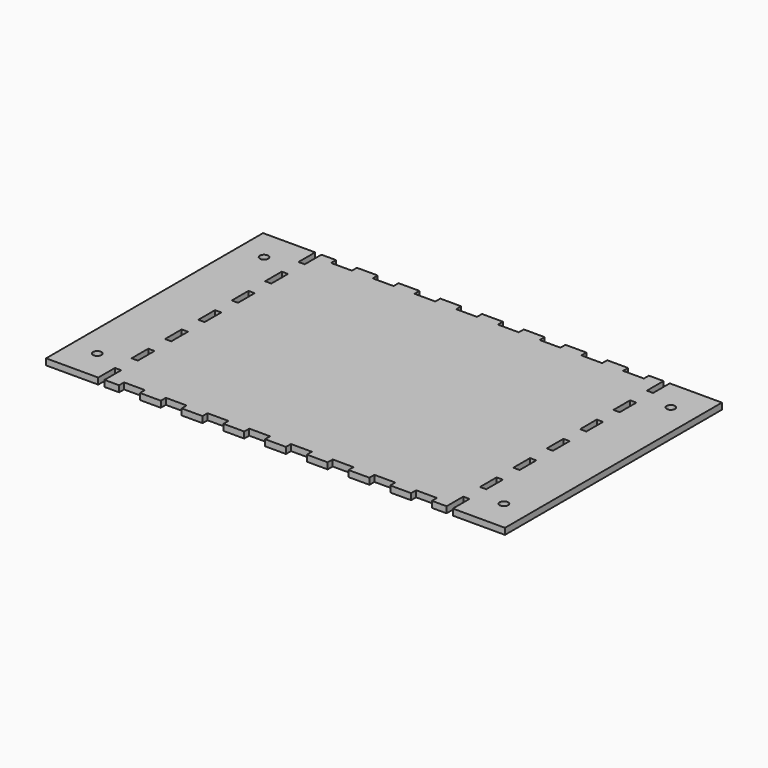
from build123d import *

# Parameters (mm, degrees)
F0_W     = 220
F0_H     = 130
F1_DEPTH = 3
F2_W     = 10
F2_H     = 3
F2_W_2   = 3
F2_H_2   = 10
F3_DEPTH = 3.001
F4_R     = 2
F5_DEPTH = 3.001


with BuildPart() as f1:
    # F0 (on Top) → F1 (new body)
    with BuildSketch(Plane.XY):
        Rectangle(F0_W, F0_H)
    extrude(amount=F1_DEPTH)

    # F2 (on face) → F3 (cut, through all)
    with BuildSketch(Plane.XY.offset(3)):
        with Locations((-70, -63.5)):
            Rectangle(F2_W, F2_H)
        with Locations((-50, -63.5)):
            Rectangle(F2_W, F2_H)
        with Locations((-30, -63.5)):
            Rectangle(F2_W, F2_H)
        with Locations((-10, -63.5)):
            Rectangle(F2_W, F2_H)
        with Locations((10, -63.5)):
            Rectangle(F2_W, F2_H)
        with Locations((30, -63.5)):
            Rectangle(F2_W, F2_H)
        with Locations((50, -63.5)):
            Rectangle(F2_W, F2_H)
        with Locations((70, -63.5)):
            Rectangle(F2_W, F2_H)
        with Locations((-83.5, -60)):
            Rectangle(F2_W_2, F2_H_2)
        with Locations((-83.5, -40)):
            Rectangle(F2_W_2, F2_H_2)
        with Locations((-83.5, -20)):
            Rectangle(F2_W_2, F2_H_2)
        with Locations((-83.5, 0)):
            Rectangle(F2_W_2, F2_H_2)
        with Locations((-83.5, 20)):
            Rectangle(F2_W_2, F2_H_2)
        with Locations((-83.5, 40)):
            Rectangle(F2_W_2, F2_H_2)
        with Locations((-83.5, 60)):
            Rectangle(F2_W_2, F2_H_2)
        with Locations((-50, 63.5)):
            Rectangle(F2_W, F2_H)
        with Locations((30, 63.5)):
            Rectangle(F2_W, F2_H)
        with Locations((-70, 63.5)):
            Rectangle(F2_W, F2_H)
        with Locations((70, 63.5)):
            Rectangle(F2_W, F2_H)
        with Locations((-10, 63.5)):
            Rectangle(F2_W, F2_H)
        with Locations((-30, 63.5)):
            Rectangle(F2_W, F2_H)
        with Locations((50, 63.5)):
            Rectangle(F2_W, F2_H)
        with Locations((10, 63.5)):
            Rectangle(F2_W, F2_H)
        with Locations((83.5, -40)):
            Rectangle(F2_W_2, F2_H_2)
        with Locations((83.5, -20)):
            Rectangle(F2_W_2, F2_H_2)
        with Locations((83.5, 40)):
            Rectangle(F2_W_2, F2_H_2)
        with Locations((83.5, 60)):
            Rectangle(F2_W_2, F2_H_2)
        with Locations((83.5, 20)):
            Rectangle(F2_W_2, F2_H_2)
        with Locations((83.5, -60)):
            Rectangle(F2_W_2, F2_H_2)
        with Locations((83.5, 0)):
            Rectangle(F2_W_2, F2_H_2)
    extrude(amount=-F3_DEPTH, mode=Mode.SUBTRACT)

    # F4 (on face) → F5 (cut, through all)
    with BuildSketch(Plane.XY.offset(3)):
        with Locations((97.5, 50)):
            Circle(F4_R)
        with Locations((97.5, -50)):
            Circle(F4_R)
        with Locations((-97.5, 50)):
            Circle(F4_R)
        with Locations((-97.5, -50)):
            Circle(F4_R)
    extrude(amount=-F5_DEPTH, mode=Mode.SUBTRACT)


solid = f1.part
